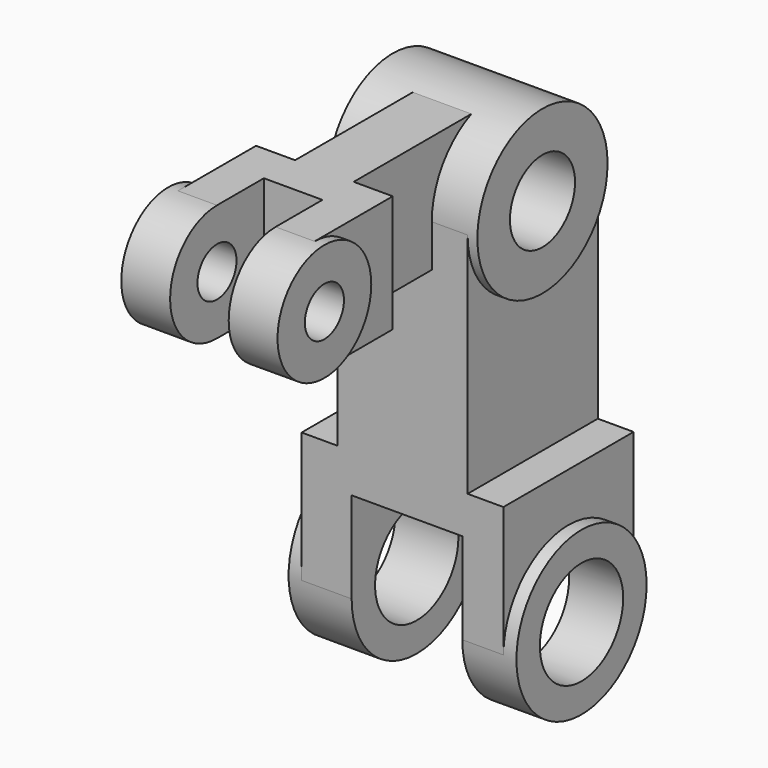
from build123d import *

# Parameters (mm, degrees)
SKETCH_R        = 25
PAD_DEPTH       = 35
SKETCH001_W     = 50
SKETCH001_H     = 40
PAD001_DEPTH    = 31
SKETCH002_W     = 34
SKETCH002_H     = 67.560009
POCKET_DEPTH    = 50.001
SKETCH003_R     = 16
POCKET001_DEPTH = 70.001
SKETCH004_W     = 40
SKETCH004_H     = 50
PAD002_DEPTH    = 70
SKETCH005_R     = 25
PAD003_DEPTH    = 23
SKETCH007_W     = 30
SKETCH007_H     = 36
PAD005_DEPTH    = 21
SKETCH006_R     = 18
PAD004_DEPTH    = 24
SKETCH008_W     = 18
SKETCH008_H     = 51.791633
POCKET002_DEPTH = 36.001
SKETCH009_R     = 7.5
POCKET003_DEPTH = 36.001
SKETCH010_W     = 57
SKETCH010_H     = 36
PAD006_DEPTH    = 9
SKETCH011_R     = 12.5
POCKET004_DEPTH = 58.001
SKETCH012_R     = 7.5
POCKET005_DEPTH = 59.001


with BuildPart() as pad:
    # Sketch → Pad (new body, symmetric)
    with BuildSketch(Plane.YZ):
        Circle(SKETCH_R)
    extrude(amount=PAD_DEPTH, both=True)


with BuildPart() as pad002:
    # Sketch001 → Pad001 (new body, symmetric)
    with BuildSketch(Plane.YZ):
        with Locations((0, 20)):
            Rectangle(SKETCH001_W, SKETCH001_H)
    extrude(amount=PAD001_DEPTH, both=True)

    # Fusion: union Pad
    add(pad.part)

    # Sketch002 → Pocket (cut, through all)
    with BuildSketch(Plane.XZ.offset(25)):
        with Locations((1.376189, -5.780005)):
            Rectangle(SKETCH002_W, SKETCH002_H)
    extrude(amount=-POCKET_DEPTH, mode=Mode.SUBTRACT)

    # Sketch003 → Pocket001 (cut, through all)
    with BuildSketch(Plane.YZ.offset(35)):
        Circle(SKETCH003_R)
    extrude(amount=-POCKET001_DEPTH, mode=Mode.SUBTRACT)

    # Sketch004 → Pad002 (new body)
    with BuildSketch(Plane.XY.offset(40)):
        Rectangle(SKETCH004_W, SKETCH004_H)
    extrude(amount=PAD002_DEPTH)


with BuildPart() as fusion003:
    # Sketch005 → Pad003 (new body, symmetric)
    with BuildSketch(Plane.YZ):
        with Locations((0, 110)):
            Circle(SKETCH005_R)
    extrude(amount=PAD003_DEPTH, both=True)

    # Fusion003: union Pad002
    add(pad002.part)


with BuildPart() as pad005:
    # Sketch007 → Pad005 (new body, symmetric)
    with BuildSketch(Plane.YZ):
        with Locations((-70, 115)):
            Rectangle(SKETCH007_W, SKETCH007_H)
    extrude(amount=PAD005_DEPTH, both=True)


with BuildPart() as pocket003:
    # Sketch006 → Pad004 (new body, symmetric)
    with BuildSketch(Plane.YZ):
        with Locations((-85, 115)):
            Circle(SKETCH006_R)
    extrude(amount=PAD004_DEPTH, both=True)

    # Fusion001: union Pad005
    add(pad005.part)

    # Sketch008 → Pocket002 (cut, through all)
    with BuildSketch(Plane.XY.offset(133)):
        with Locations((0, -92.895816)):
            Rectangle(SKETCH008_W, SKETCH008_H)
    extrude(amount=-POCKET002_DEPTH, mode=Mode.SUBTRACT)

    # Sketch009 → Pocket003 (cut, through all)
    with BuildSketch(Plane.XY.offset(133)):
        with Locations((-85, 110)):
            Circle(SKETCH009_R)
    extrude(amount=-POCKET003_DEPTH, mode=Mode.SUBTRACT)


with BuildPart() as pocket005:
    # Sketch010 → Pad006 (new body, symmetric)
    with BuildSketch(Plane.YZ):
        with Locations((-28.5, 115)):
            Rectangle(SKETCH010_W, SKETCH010_H)
    extrude(amount=PAD006_DEPTH, both=True)

    # Fusion002: union Pocket003
    add(pocket003.part)

    # Fusion004: union Fusion003
    add(fusion003.part)

    # Sketch011 → Pocket004 (cut, through all)
    with BuildSketch(Plane.YZ.offset(23)):
        with Locations((0, 110)):
            Circle(SKETCH011_R)
    extrude(amount=-POCKET004_DEPTH, mode=Mode.SUBTRACT)

    # Sketch012 → Pocket005 (cut, through all)
    with BuildSketch(Plane.YZ.offset(24)):
        with Locations((-85, 115)):
            Circle(SKETCH012_R)
    extrude(amount=-POCKET005_DEPTH, mode=Mode.SUBTRACT)


solid = pocket005.part
